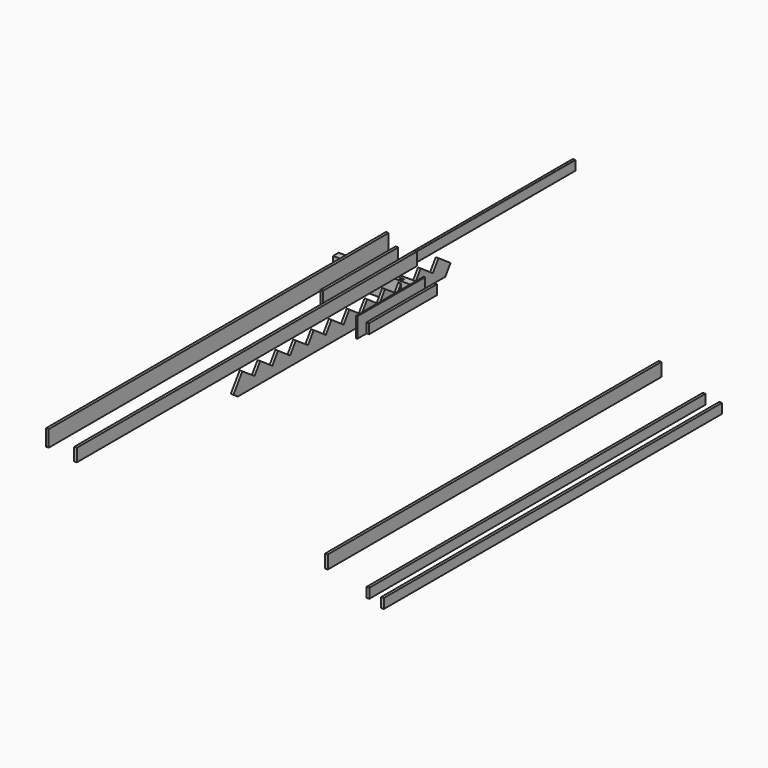
from build123d import *

# Parameters (mm, degrees)
F1_DEPTH  = 3048
F2_W      = 38.1
F2_H      = 184.15
F3_DEPTH  = 50.8
F4_DEPTH  = 6045.2
F5_W      = 38.1
F5_H      = 234.95
F6_DEPTH  = 6096
F7_W      = 139.7
F7_H      = 19.05
F8_DEPTH  = 1137.666
F9_W      = 139.7
F9_H      = 19.05
F11_DEPTH = 1219.2
F17_W     = 38.1
F17_H     = 196.85
F18_DEPTH = 1349.375
F20_DEPTH = 38.1
F21_W     = 38.1
F21_H     = 139.7
F22_DEPTH = 1213.866
F24_DEPTH = 1213.866
F26_W     = 3048
F26_H     = 4572
F27_DEPTH = 152.4
F29_W     = 38.1
F29_H     = 190.5
F30_DEPTH = 5980.05154
F31_W     = 38.1
F31_H     = 139.7
F32_DEPTH = 6066.1558636
F34_DEPTH = 152.4
F35_W     = 38.1
F35_H     = 139.7
F36_DEPTH = 6111.8779464
F38_DEPTH = 152.4
F39_W     = 1137.666
F39_H     = 304.8
F40_DEPTH = 101.6


with BuildPart() as f1:
    # F0 (on Front) → F1 (new body)
    with BuildSketch(Plane.XZ):
        with BuildLine():
            Line((15.875, 69.85), (-15.875, 69.85))
            ThreePointArc((-15.875, 69.85), (-18.1200640303, 68.9200640303), (-19.05, 66.675))
            Line((-19.05, 66.675), (-19.05, -66.675))
            ThreePointArc((-19.05, -66.675), (-18.1200640303, -68.9200640303), (-15.875, -69.85))
            Line((-15.875, -69.85), (15.875, -69.85))
            ThreePointArc((15.875, -69.85), (18.1200640303, -68.9200640303), (19.05, -66.675))
            Line((19.05, -66.675), (19.05, 66.675))
            ThreePointArc((19.05, 66.675), (18.1200640303, 68.9200640303), (15.875, 69.85))
        make_face()
    extrude(amount=-F1_DEPTH)


with BuildPart() as f3:
    # F2 (on Front) → F3 (new body)
    with BuildSketch(Plane.XZ):
        with Locations((164.1992905617, 112.298101601)):
            Rectangle(F2_W, F2_H)
    extrude(amount=F3_DEPTH)

    # F4 (add): a face of the model
    f4_faces = [f3.faces().sort_by_distance(p)[0] for p in [
        (164.1992905617, -50.8, 112.298101601),
    ]]
    extrude(f4_faces, amount=F4_DEPTH)


with BuildPart() as f6:
    # F5 (on Front) → F6 (new body)
    with BuildSketch(Plane.XZ):
        with Locations((-238.8738712788, 191.5656894207)):
            Rectangle(F5_W, F5_H)
    extrude(amount=F6_DEPTH)


with BuildPart() as f8:
    # F7 (on Front) → F8 (new body)
    with BuildSketch(Plane.XZ):
        with Locations((262.851086998, 128.6662210464)):
            Rectangle(F7_W, F7_H)
    extrude(amount=F8_DEPTH)

    # F9 (on face) → F11 (join)
    with BuildSketch(Plane.XZ.offset(1137.666)):
        with Locations((262.851086998, 128.6662210464)):
            Rectangle(F9_W, F9_H)
    extrude(amount=-F11_DEPTH)


with BuildPart() as f12_1:
    # F12: copy of F8
    add(f8.part)


with BuildPart() as f13_1:
    # F13: copy of F8
    add(f8.part)


with BuildPart() as f18:
    # F17 (on Front) → F18 (new body)
    with BuildSketch(Plane.XZ):
        with Locations((-101.7351278543, 72.4531291306)):
            Rectangle(F17_W, F17_H)
    extrude(amount=F18_DEPTH)


with BuildPart() as f20:
    # F19 (on Right) → F20 (new body)
    with BuildSketch(Plane.YZ):
        Polygon((-3027.4551845205, -443.0521097511), (693.4561667744, -443.0521097511), (787.2428459828, -306.4855299511), (570.0108699828, -157.3021097511), (467.8980279751, -305.9927523136), (250.6660519751, -156.8093321136), (148.2147963751, -305.9927523136), (-69.0171796249, -156.8093321136), (-171.4684352249, -305.9927523136), (-388.7004112249, -156.8093321136), (-491.1516668249, -305.9927523136), (-708.3836428249, -156.8093321136), (-810.8348984249, -305.9927523136), (-1028.0668744249, -156.8093321136), (-1130.5181300249, -305.9927523136), (-1347.7501060249, -156.8093321136), (-1450.2013616249, -305.9927523136), (-1667.4333376249, -156.8093321136), (-1769.8845932249, -305.9927523136), (-1987.1165692249, -156.8093321136), (-2089.5678248249, -305.9927523136), (-2306.7998008249, -156.8093321136), (-2409.2510564249, -305.9927523136), (-2626.4830324249, -156.8093321136), (-2728.5958744326, -305.4999746762), (-2945.8278504326, -156.3165544762), (-3037.4947721797, -289.796444656), (-3105.7956158343, -389.2520491037), align=None)
    extrude(amount=F20_DEPTH)


with BuildPart() as f22:
    # F21 (on Front) → F22 (new body)
    with BuildSketch(Plane.XZ):
        with Locations((451.1910399914, -184.2514254093)):
            Rectangle(F21_W, F21_H)
    extrude(amount=F22_DEPTH)


with BuildPart() as f24:
    # F23 (on Front) → F24 (new body)
    with BuildSketch(Plane.XZ):
        with BuildLine():
            Line((298.0427954674, -80.3009805679), (282.1677954674, -80.3009805679))
            Line((282.1677954674, -80.3009805679), (282.1677954674, -366.0509805679))
            Line((282.1677954674, -366.0509805679), (301.2177954674, -366.0509805679))
            Line((301.2177954674, -366.0509805679), (301.2177954674, -83.4759805679))
            ThreePointArc((301.2177954674, -83.4759805679), (300.2878594976, -81.2309165377), (298.0427954674, -80.3009805679))
        make_face()
    extrude(amount=F24_DEPTH)


with BuildPart() as f27:
    # F26 (on Front) → F27 (new body)
    with BuildSketch(Plane.XZ):
        with Locations((-3768.133808136, 87.837682724)):
            Rectangle(F26_W, F26_H)
    extrude(amount=F27_DEPTH)


with BuildPart() as f30:
    # F29 (on Front) → F30 (new body)
    with BuildSketch(Plane.XZ):
        with Locations((3672.1161624908, -144.0351859331)):
            Rectangle(F29_W, F29_H)
    extrude(amount=F30_DEPTH)


with BuildPart() as f32:
    # F31 (on Front) → F32 (new body)
    with BuildSketch(Plane.XZ):
        with Locations((4305.7936408997, -313.8175882339)):
            Rectangle(F31_W, F31_H)
    extrude(amount=F32_DEPTH)

    # F33 (on face) → F34 (cut)
    with BuildSketch(Plane.XY.offset(-243.9675882339)):
        Polygon((4324.8436408997, -6066.1558636), (4324.8436408997, -6028.0558636), (4286.7436408997, -6031.3891816803), (4286.7436408997, -6066.1558636), align=None)
    extrude(amount=-F34_DEPTH, mode=Mode.SUBTRACT)


with BuildPart() as f36:
    # F35 (on Front) → F36 (new body)
    with BuildSketch(Plane.XZ):
        with Locations((4541.6709205627, -352.4767436028)):
            Rectangle(F35_W, F35_H)
    extrude(amount=F36_DEPTH)

    # F37 (on face) → F38 (cut)
    with BuildSketch(Plane.XY.offset(-282.6267436028)):
        Polygon((4560.7209205627, -6111.8779464), (4560.7209205627, -6061.0779464), (4522.6209205627, -6064.4112644803), (4522.6209205627, -6111.8779464), align=None)
    extrude(amount=-F38_DEPTH, mode=Mode.SUBTRACT)


with BuildPart() as f40:
    # F39 (on Front) → F40 (new body)
    with BuildSketch(Plane.XZ):
        with Locations((-369.0828725739, -326.5144508541)):
            Rectangle(F39_W, F39_H)
    extrude(amount=F40_DEPTH)


solid = Compound([f1.part, f3.part, f6.part, f18.part, f20.part, f22.part, f24.part, f30.part, f32.part, f36.part, f40.part])
